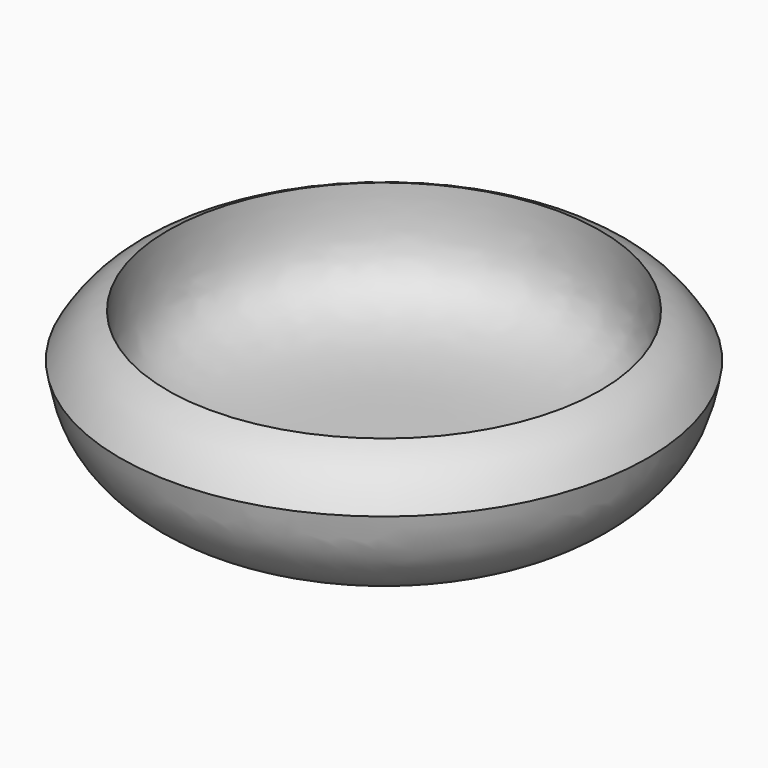
from build123d import *


with BuildPart() as f1:
    # F0 (on Front) → F1 (revolve)
    with BuildSketch(Plane.XZ):
        with BuildLine():
            Line((0, 12.9125677049), (0, 5.08))
            Line((0, 5.08), (27.94, 5.08))
            Line((27.94, 5.08), (26.5788181024, 0))
            Line((26.5788181024, 0), (45.6288181024, 0))
            add(Edge.make_bspline(
                [(76.2, 32.218746841), (74.8814208084, 24.4631925024), (70.8339436145, 13.7330115152), (58.062006921, 3.6764789456), (45.6288181024, 0)],
                knots=[0, 0, 0, 0, 0.4472896339, 1, 1, 1, 1], degree=3))
            add(Edge.make_bspline(
                [(76.2, 32.218746841), (75.008174271, 34.1575640558), (71.5578600737, 39.6811820412), (65.5096262036, 43.7549573981), (62.4276064336, 44.8793880641)],
                knots=[0, 0, 0, 0, 0.4738692448, 1, 1, 1, 1], degree=3))
            add(Edge.make_bspline(
                [(62.4276064336, 44.8793880641), (62.5127193848, 39.4839889314), (62.6004387207, 25.3405663102), (50.0524423637, 15.5300611231), (27.5885186708, 12.4205493761), (9.9309823936, 13.0558252777), (0, 12.9125677049)],
                knots=[0, 0, 0, 0, 0.2372180901, 0.4456653733, 0.7048961133, 1, 1, 1, 1], degree=3))
        make_face()
    revolve(axis=Axis((0, 0, 25.4), (0, 0, 1)))


solid = f1.part
